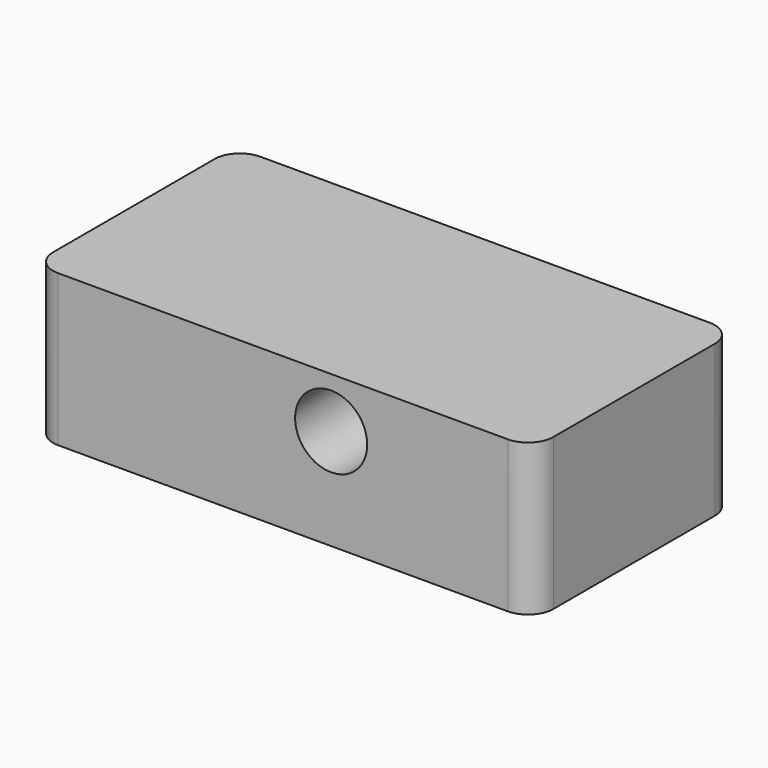
from build123d import *

# Parameters (mm, degrees)
F1_DEPTH = 38.1
F2_R     = 9.065881
F3_DEPTH = 63.501


with BuildPart() as f1:
    # F0 (on Top) → F1 (new body)
    with BuildSketch(Plane.XY):
        with BuildLine():
            Line((-119.457016, 0), (-6.35, 0))
            ThreePointArc((-6.35, 0), (-1.859872, 1.859872), (0, 6.35))
            Line((0, 6.35), (0, 57.15))
            ThreePointArc((0, 57.15), (-1.859872, 61.640128), (-6.35, 63.5))
            Line((-6.35, 63.5), (-119.457016, 63.5))
            ThreePointArc((-119.457016, 63.5), (-123.947144, 61.640128), (-125.807016, 57.15))
            Line((-125.807016, 57.15), (-125.807016, 6.35))
            ThreePointArc((-125.807016, 6.35), (-123.947144, 1.859872), (-119.457016, 0))
        make_face()
    extrude(amount=F1_DEPTH)

    # F2 (on face) → F3 (cut, through all)
    with BuildSketch(Plane(origin=(0, 63.5, 0), x_dir=(-1, 0, 0), z_dir=(0, 1, 0))):
        with Locations((50.8, 25.4)):
            Circle(F2_R)
    extrude(amount=-F3_DEPTH, mode=Mode.SUBTRACT)


solid = f1.part
